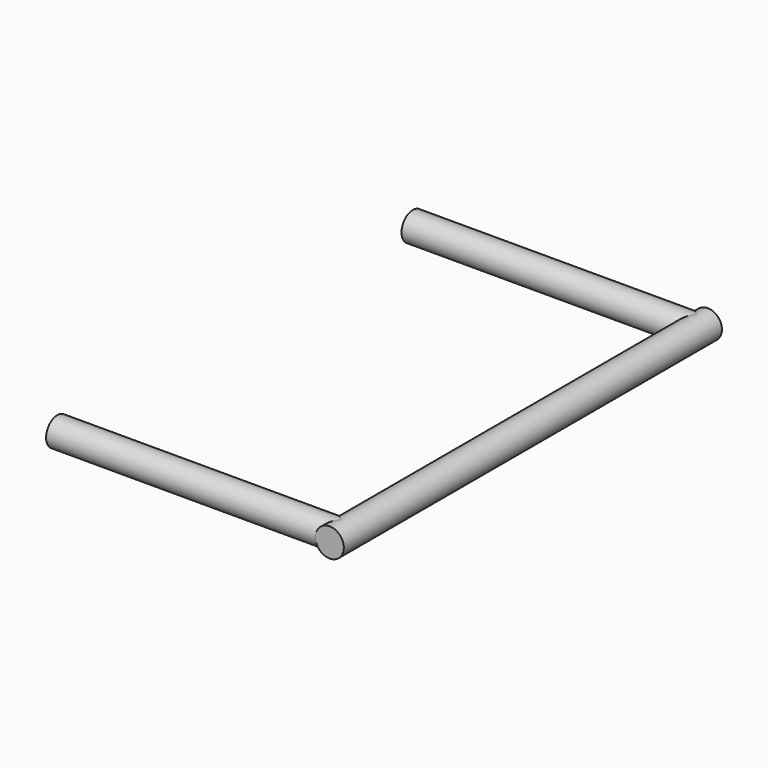
from build123d import *

# Parameters (mm, degrees)
CYLINDER023_R             = 3
CYLINDER023_DEPTH         = 60
CYLINDER023_PITCH_ANGLE   = 90
CYLINDER022_R             = 3
CYLINDER022_DEPTH         = 100
CYLINDER022_ROLL_ANGLE    = 90
CYLINDER024_R             = 3
CYLINDER024_DEPTH         = 60
CYLINDER024_PITCH_ANGLE   = 90
FUSION009_PLACEMENT_ANGLE = 180


with BuildPart() as cylinder026:
    # Cylinder023 → Cylinder023 (new body)
    with BuildSketch(Plane.XY):
        Circle(CYLINDER023_R)
    extrude(amount=CYLINDER023_DEPTH)


with BuildPart() as cylinder026_1:
    # Cylinder023 pitch: moved
    add(cylinder026.part.rotate(Axis((0, 0, 0), (0, 1, 0)), CYLINDER023_PITCH_ANGLE))


with BuildPart() as cylinder026_2:
    # Cylinder023 placement: moved
    add(cylinder026_1.part.moved(Location((-50, -3, 0))))


with BuildPart() as fusion008:
    # Cylinder022 → Cylinder022 (new body)
    with BuildSketch(Plane.XY):
        Circle(CYLINDER022_R)
    extrude(amount=CYLINDER022_DEPTH)


with BuildPart() as fusion008_1:
    # Cylinder022 roll: moved
    add(fusion008.part.rotate(Axis((0, 0, 0), (1, 0, 0)), CYLINDER022_ROLL_ANGLE))


with BuildPart() as fusion008_2:
    # Cylinder022 placement: moved
    add(fusion008_1.part.moved(Location((-50, 0, 0))))

    # Fusion008: union Cylinder026
    add(cylinder026_2.part)


with BuildPart() as handle_right:
    # Cylinder024 → Cylinder024 (new body)
    with BuildSketch(Plane.XY):
        Circle(CYLINDER024_R)
    extrude(amount=CYLINDER024_DEPTH)


with BuildPart() as handle_right_1:
    # Cylinder024 pitch: moved
    add(handle_right.part.rotate(Axis((0, 0, 0), (0, 1, 0)), CYLINDER024_PITCH_ANGLE))


with BuildPart() as handle_right_2:
    # Cylinder024 placement: moved
    add(handle_right_1.part.moved(Location((-50, -97, 0))))

    # Fusion009: union Fusion008
    add(fusion008_2.part)


with BuildPart() as handle_right_3:
    # Fusion009 placement: moved
    add(handle_right_2.part.moved(Location((500, 165, 230))).rotate(Axis((500, 165, 230), (0, 1, 0)), FUSION009_PLACEMENT_ANGLE))


solid = handle_right_3.part
